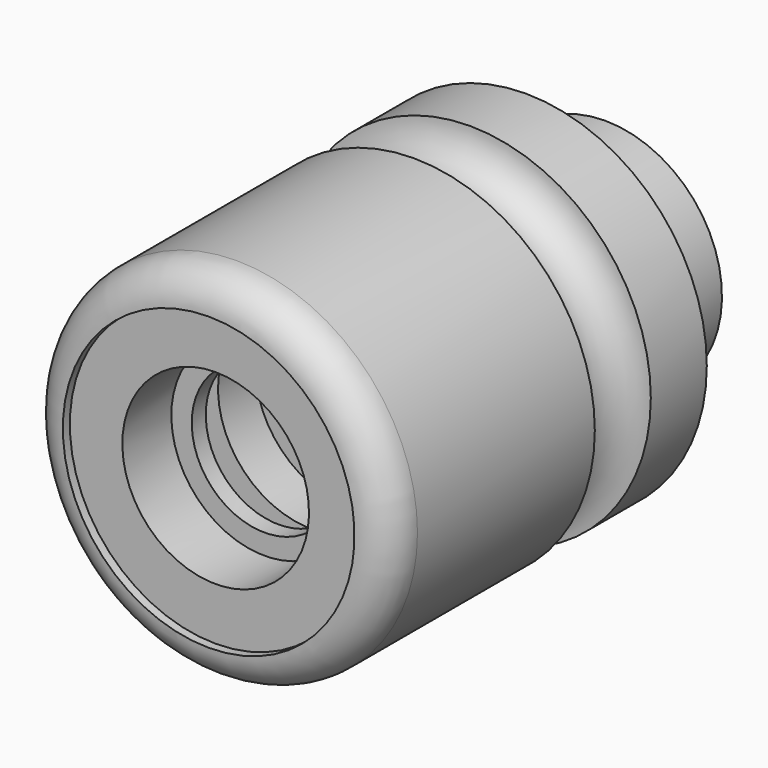
from build123d import *

# Parameters (mm, degrees)
F1_W   = 3
F1_H   = 12.5
F1_W_2 = 58
F1_H_2 = 6


with BuildPart() as f2:
    # F0 (on Right) → F2 (revolve)
    with BuildSketch(Plane.YZ):
        with BuildLine():
            Line((-88, 0), (0, 0))
            Line((0, 0), (0, 16))
            Line((0, 16), (-3, 16))
            Line((-3, 16), (-3, 20))
            Line((-3, 20), (-20, 20))
            Line((-20, 20), (-20, 31))
            Line((-20, 31), (-32, 31))
            ThreePointArc((-32, 31), (-38, 25), (-44, 31))
            Line((-44, 31), (-82, 31))
            ThreePointArc((-82, 31), (-86.242641, 29.242641), (-88, 25))
            Line((-88, 25), (-88, 0))
        make_face()
    revolve(axis=Axis((0, -44, 0), (0, 1, 0)))

    # F1 (on Right) → F3 (revolve, cut)
    with BuildSketch(Plane.YZ):
        Polygon((-88, 25), (-88, 0), (-86.5, 0), (-86.5, 16), (-86.5, 25), align=None)
        Polygon((-86.5, 16), (-86.5, 0), (-76, 0), (-76, 12.5), (-76, 16), align=None)
        with Locations((-74.5, 6.25)):
            Rectangle(F1_W, F1_H)
        Polygon((-73, 12.5), (-73, 0), (-66, 0), (-66, 16), (-66, 20), (-73, 20), align=None)
        Polygon((-66, 16), (-66, 0), (-58, 0), (-58, 6), (-58, 16), align=None)
        with Locations((-29, 3)):
            Rectangle(F1_W_2, F1_H_2)
    revolve(axis=Axis((0, -44, 0), (0, 1, 0)), mode=Mode.SUBTRACT)


solid = f2.part
